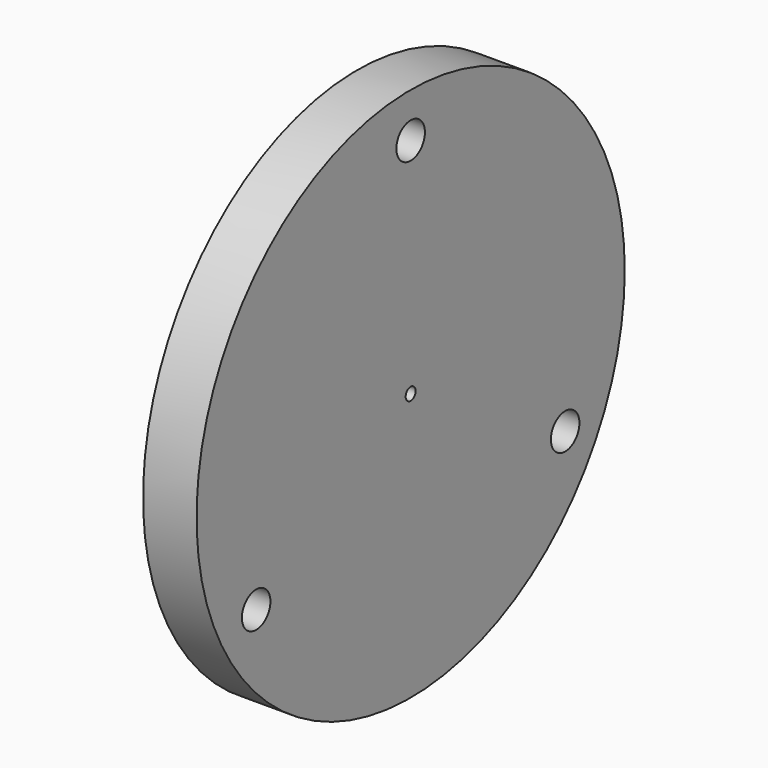
from build123d import *

# Parameters (mm, degrees)
F0_R       = 25.4
F1_DEPTH   = 7.62
F2_R       = 38.1
F1_FACE1_R = 25.4
F3_DEPTH   = 7.62
F4_R       = 2.54
F5_DEPTH   = 7.62
F7_D       = 5.4102
F7_DEPTH   = 8.89
F7_TIP     = 1.6253880605
F8_D       = 1.778


with BuildPart() as f1:
    # F0 (on Right) → F1 (new body)
    with BuildSketch(Plane.YZ):
        Circle(F0_R)
    extrude(amount=F1_DEPTH)

    # F2 (on face) + F1_face1 (on face) → F3 (join)
    with BuildSketch(Plane.YZ.offset(7.62)):
        Circle(F2_R)
    with BuildSketch(Plane(origin=(0, 0, 0), x_dir=(0, 1, 0), z_dir=(-1, 0, 0))):
        Circle(F1_FACE1_R)
    extrude(amount=F3_DEPTH, dir=(1, 0, 0))

    # F4 (on face) → F5 (cut)
    with BuildSketch(Plane.YZ.offset(15.24)):
        with Locations((0, 31.75)):
            Circle(F4_R)
        with Locations((27.4963065702, -15.875)):
            Circle(F4_R)
        with Locations((-27.4963065702, -15.875)):
            Circle(F4_R)
    extrude(amount=-F5_DEPTH, mode=Mode.SUBTRACT)

    # F7
    with Locations(Plane(origin=(0, 0, 0), x_dir=(0, -1, 0), z_dir=(-1, 0, 0))):
        with Locations((0, 0)):
            Hole(F7_D / 2, depth=F7_DEPTH)
            with Locations((0, 0, -(F7_DEPTH + F7_TIP / 2))):  # 118° drill point
                Cone(0, F7_D / 2, F7_TIP, mode=Mode.SUBTRACT)

    # F8 (through all)
    with Locations(Plane(origin=(0, 0, 0), x_dir=(0, -1, 0), z_dir=(-1, 0, 0))):
        with Locations((0, 0)):
            Hole(F8_D / 2)


solid = f1.part
